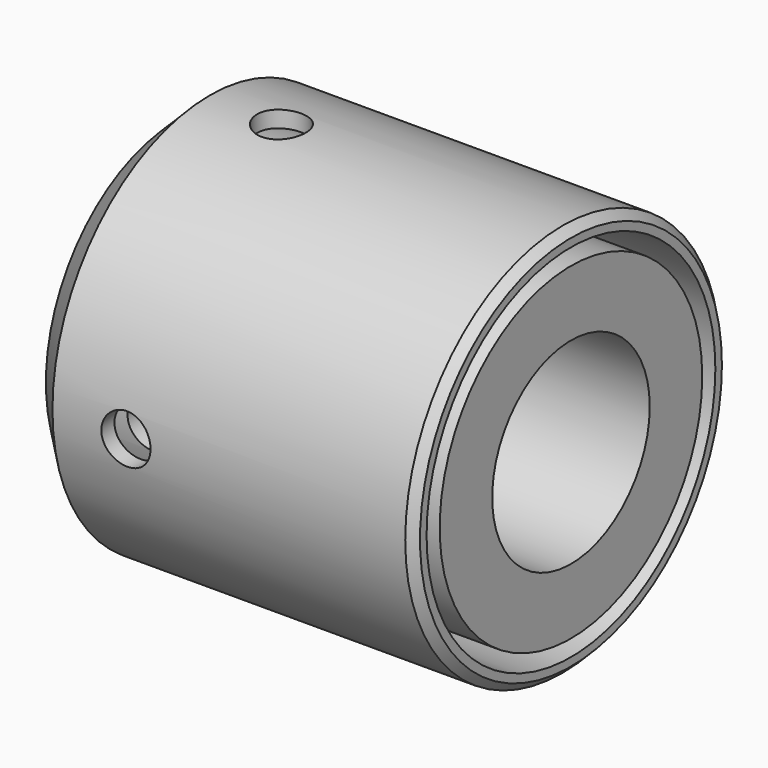
from build123d import *

# Parameters (mm, degrees)
SKETCH017_R           = 12
SKETCH017_R_2         = 6
PAD007_DEPTH          = 12
SKETCH018_R           = 11
SKETCH018_R_2         = 10
POCKET010_DEPTH       = 22
SKETCH019_R           = 8
SKETCH019_R_2         = 7.35
POCKET011_DEPTH       = 13
CHAMFER_SIZE          = 2
CHAMFER001_SIZE       = 0.5
SKETCH020_R           = 1.5
POCKET012_DEPTH       = 5
POLARPATTERN003_COUNT = 4


with BuildPart() as part:
    # Sketch017 → Pad007 (new body, symmetric)
    with BuildSketch(Plane.YZ):
        Circle(SKETCH017_R)
        Circle(SKETCH017_R_2, mode=Mode.SUBTRACT)
    extrude(amount=PAD007_DEPTH, both=True)

    # Sketch018 (on Face4 of Pad007) → Pocket010 (cut)
    with BuildSketch(Plane.YZ.offset(12)):
        Circle(SKETCH018_R)
        Circle(SKETCH018_R_2, mode=Mode.SUBTRACT)
    extrude(amount=-POCKET010_DEPTH, mode=Mode.SUBTRACT)

    # Sketch019 → Pocket011 (cut)
    with BuildSketch(Plane.YZ):
        Circle(SKETCH019_R)
        Circle(SKETCH019_R_2, mode=Mode.SUBTRACT)
    extrude(amount=-POCKET011_DEPTH, mode=Mode.SUBTRACT)

    # Chamfer
    chamfer_edges = [part.edges().sort_by_distance(p)[0] for p in [
        (-12, -12, 0),
    ]]
    chamfer(chamfer_edges, length=CHAMFER_SIZE)

    # Chamfer001
    chamfer001_edges = [part.edges().sort_by_distance(p)[0] for p in [
        (12, -12, 0),
    ]]
    chamfer(chamfer001_edges, length=CHAMFER001_SIZE)

    # Sketch020 → Pocket012 (cut)
    with BuildSketch(Plane.XY.offset(-12)):
        with Locations((-5.524041, 0.1487)):
            Circle(SKETCH020_R)
    pocket012 = extrude(amount=POCKET012_DEPTH, mode=Mode.SUBTRACT)

    # PolarPattern003: Pocket012 ×4 about axis
    polarpattern003_axis = Axis((0, 0, 0), (1, 0, 0))
    for i in range(1, POLARPATTERN003_COUNT):
        add(pocket012.rotate(polarpattern003_axis, i * 360 / POLARPATTERN003_COUNT), mode=Mode.SUBTRACT)


with BuildPart() as part_1:
    # Body003 placement: moved
    add(part.part.moved(Location((12, 0, 0))))


solid = part_1.part
